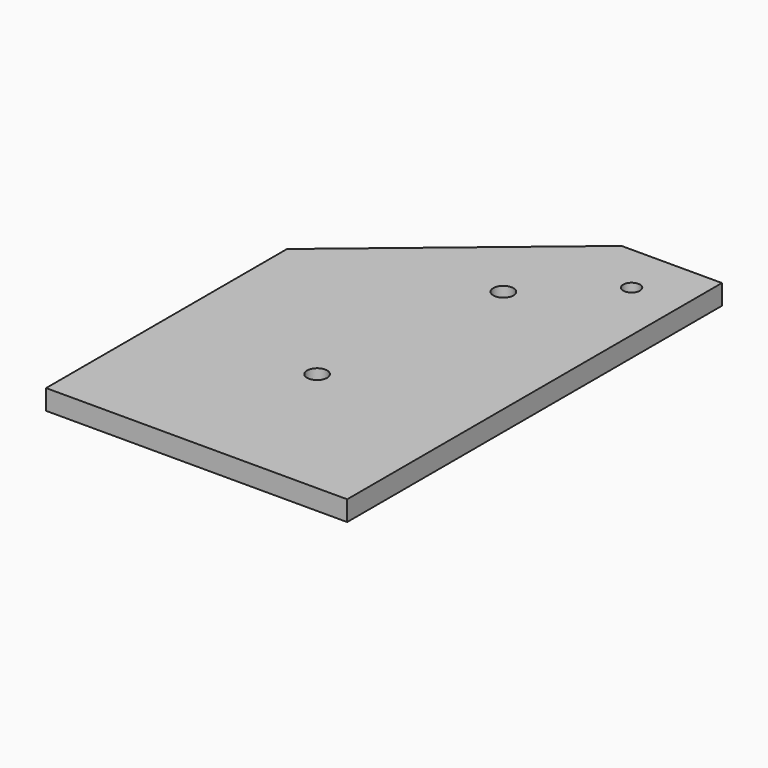
from build123d import *

# Parameters (mm, degrees)
F1_DEPTH = 3
F2_D     = 3
F3_D     = 3
F4_D     = 2.5


with BuildPart() as f1:
    # F0 (on Top) → F1 (new body)
    with BuildSketch(Plane.XY):
        Polygon((-45, -41.623287946), (0, -41.623287946), (0, 28.376712054), (-15, 28.376712054), (-45, 3.376712054), align=None)
    extrude(amount=F1_DEPTH)

    # F2 (through all)
    with Locations(Plane(origin=(0, 0, 0), x_dir=(1, 0, 0), z_dir=(0, 0, -1))):
        with Locations((-22.5, 19.123287946)):
            Hole(F2_D / 2)

    # F3 (through all)
    with Locations(Plane(origin=(0, 0, 0), x_dir=(1, 0, 0), z_dir=(0, 0, -1))):
        with Locations((-18.5292713703, -10.7140789706)):
            Hole(F3_D / 2)

    # F4 (through all)
    with Locations(Plane(origin=(0, 0, 0), x_dir=(1, 0, 0), z_dir=(0, 0, -1))):
        with Locations((-7.5, -20.876712054)):
            Hole(F4_D / 2)


solid = f1.part
